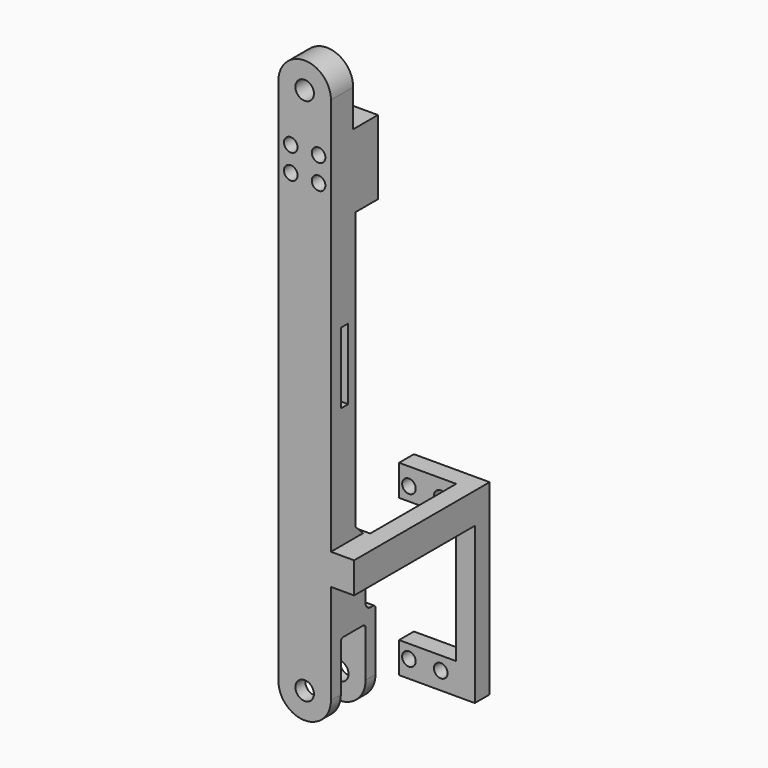
from build123d import *

# Parameters (mm, degrees)
CYLINDER031_R          = 2.2
CYLINDER031_DEPTH      = 26
CYLINDER031_ROLL_ANGLE = -90
ARRAY004_X_COUNT       = 2
ARRAY004_X_PITCH       = 8
ARRAY004_Z_COUNT       = 2
ARRAY004_Z_PITCH       = 9
BOX022_W               = 24
BOX022_H               = 10
BOX022_DEPTH           = 17
SKETCH016_R            = 3
PAD016_DEPTH           = 9
BOX023_W               = 35
BOX023_H               = 15
BOX023_DEPTH           = 20
BOX014_W               = 23
BOX014_H               = 3
BOX014_DEPTH           = 20
SKETCH_R               = 3
PAD_DEPTH              = 4
SKETCH001_R            = 3
PAD001_DEPTH           = 4
BOX010_W               = 20
BOX010_H               = 17
BOX010_DEPTH           = 10
FILLET001_R            = 1
FILLET001_ROLL_ANGLE   = 90
FILLET002_1_R          = 2
FILLET002_2_R          = 1
BOX008_W               = 167
BOX008_H               = 10
BOX008_DEPTH           = 17
CYLINDER028_R          = 2.2
CYLINDER028_DEPTH      = 18
CYLINDER028_ROLL_ANGLE = -90
ARRAY_X_COUNT          = 2
ARRAY_X_PITCH          = 49.2
ARRAY_Z_COUNT          = 2
ARRAY_Z_PITCH          = 10.3
PAD008_DEPTH           = 6
PAD007_DEPTH           = 10
CHAMFER001_SIZE        = 3
CUT014_PITCH_ANGLE     = 90


with BuildPart() as obj1:
    # Cylinder031 → Cylinder031 (new body)
    with BuildSketch(Plane.XY):
        Circle(CYLINDER031_R)
    extrude(amount=CYLINDER031_DEPTH)


with BuildPart() as obj1_1:
    # Cylinder031 roll: moved
    add(obj1.part.rotate(Axis((0, 0, 0), (1, 0, 0)), CYLINDER031_ROLL_ANGLE))


with BuildPart() as obj1_2:
    # Cylinder031 placement: moved
    add(obj1_1.part.moved(Location((202, 0, 4))))

    # Array004 X: obj1_2


with BuildPart() as obj1_3:
    add(obj1_2.part)
    with Locations(*[(i * ARRAY004_X_PITCH, 0, 0) for i in range(1, ARRAY004_X_COUNT)]):
        add(obj1_2.part)

    # Array004 Z: obj1_2


with BuildPart() as obj1_4:
    add(obj1_3.part)
    with Locations(*[(0, 0, i * ARRAY004_Z_PITCH) for i in range(1, ARRAY004_Z_COUNT)]):
        add(obj1_3.part)


with BuildPart() as obj1_5:
    # Array004 placement: moved
    add(obj1_4.part.moved(Location((-171, -5, 0))))


with BuildPart() as obj2:
    # Box022 → Box022 (new body)
    with BuildSketch(Plane(origin=(26, 6, 0), x_dir=(1, 0, 0), z_dir=(0, 0, 1))):
        with Locations((12, 5)):
            Rectangle(BOX022_W, BOX022_H)
    extrude(amount=BOX022_DEPTH)


with BuildPart() as obj3:
    # Sketch016 → Pad016 (new body)
    with BuildSketch(Plane(origin=(50, 6, 0), x_dir=(1, 0, 0), z_dir=(0, -1, 0))):
        with BuildLine():
            Line((0, 17), (-36, 17))
            ThreePointArc((-36, 17), (-44.500015, 8.5), (-36, 0))
            Line((-36, 0), (0, 0))
            Line((0, 0), (0, 17))
        make_face()
        with Locations((-36.000015, 8.5)):
            Circle(SKETCH016_R, mode=Mode.SUBTRACT)
    extrude(amount=PAD016_DEPTH)


with BuildPart() as obj4:
    # Box023 → Box023 (new body)
    with BuildSketch(Plane(origin=(-2, -5, 0), x_dir=(1, 0, 0), z_dir=(0, 0, 1))):
        with Locations((17.5, 7.5)):
            Rectangle(BOX023_W, BOX023_H)
    extrude(amount=BOX023_DEPTH)


with BuildPart() as obj5:
    # Box014 → Box014 (new body)
    with BuildSketch(Plane(origin=(80.5, 1, 0), x_dir=(1, 0, 0), z_dir=(0, 0, 1))):
        with Locations((11.5, 1.5)):
            Rectangle(BOX014_W, BOX014_H)
    extrude(amount=BOX014_DEPTH)


with BuildPart() as obj6:
    # Sketch → Pad (new body)
    with BuildSketch(Plane.XY):
        with BuildLine():
            Line((0, 17), (20, 17))
            ThreePointArc((20, 0), (28.500019, 8.5), (20, 17))
            Line((20, 0), (0, 0))
            Line((0, 0), (0, 17))
        make_face()
        with Locations((20.000019, 8.5)):
            Circle(SKETCH_R, mode=Mode.SUBTRACT)
    extrude(amount=PAD_DEPTH)


with BuildPart() as obj7:
    # Sketch001 → Pad001 (new body)
    with BuildSketch(Plane.XY.offset(14)):
        with BuildLine():
            Line((0, 17), (20, 17))
            ThreePointArc((20, 0), (28.500019, 8.5), (20, 17))
            Line((20, 0), (0, 0))
            Line((0, 0), (0, 17))
        make_face()
        with Locations((20.000019, 8.5)):
            Circle(SKETCH001_R, mode=Mode.SUBTRACT)
    extrude(amount=PAD001_DEPTH)


with BuildPart() as obj8:
    # Box010 → Box010 (new body)
    with BuildSketch(Plane(origin=(-16, 0, 4), x_dir=(1, 0, 0), z_dir=(0, 0, 1))):
        with Locations((10, 8.5)):
            Rectangle(BOX010_W, BOX010_H)
    extrude(amount=BOX010_DEPTH)

    # Fusion006: union obj6, obj7
    add(obj6.part)
    add(obj7.part)

    # Fillet001
    fillet001_edges = [obj8.edges().sort_by_distance(p)[0] for p in [
        (0, 8.5, 18),
        (-16, 0, 9),
        (-16, 17, 9),
        (0, 8.5, 0),
    ]]
    fillet(fillet001_edges, radius=FILLET001_R)


with BuildPart() as obj8_1:
    # Fillet001 roll: moved
    add(obj8.part.rotate(Axis((0, 0, 0), (1, 0, 0)), FILLET001_ROLL_ANGLE))


with BuildPart() as obj8_2:
    # Fillet001 placement: moved
    add(obj8_1.part.moved(Location((16, 15, 0))))

    # Fillet002 1
    fillet002_1_edges = [obj8_2.edges().sort_by_distance(p)[0] for p in [
        (16, 1, 8.5),
        (16, 11, 8.5),
    ]]
    fillet(fillet002_1_edges, radius=FILLET002_1_R)

    # Fillet002 2
    fillet002_2_edges = [obj8_2.edges().sort_by_distance(p)[0] for p in [
        (20, 1, 8.5),
        (20, 11, 8.5),
    ]]
    fillet(fillet002_2_edges, radius=FILLET002_2_R)


with BuildPart() as obj8_3:
    # Fillet002 placement: moved
    add(obj8_2.part.moved(Location((149, 0, 0))))


with BuildPart() as obj9:
    # Box008 → Box008 (new body)
    with BuildSketch(Plane(origin=(0, -3, 0), x_dir=(1, 0, 0), z_dir=(0, 0, 1))):
        with Locations((83.5, 5)):
            Rectangle(BOX008_W, BOX008_H)
    extrude(amount=BOX008_DEPTH)

    # Fusion007: union obj8
    add(obj8_3.part)

    # Cut009: cut obj5
    add(obj5.part, mode=Mode.SUBTRACT)


with BuildPart() as obj10:
    # Cylinder028 → Cylinder028 (new body)
    with BuildSketch(Plane.XY):
        Circle(CYLINDER028_R)
    extrude(amount=CYLINDER028_DEPTH)


with BuildPart() as obj10_1:
    # Cylinder028 roll: moved
    add(obj10.part.rotate(Axis((0, 0, 0), (1, 0, 0)), CYLINDER028_ROLL_ANGLE))


with BuildPart() as obj10_2:
    # Cylinder028 placement: moved
    add(obj10_1.part.moved(Location((150.075, 41, 13.5))))

    # Array X: obj10_2


with BuildPart() as obj10_3:
    add(obj10_2.part)
    with Locations(*[(i * ARRAY_X_PITCH, 0, 0) for i in range(1, ARRAY_X_COUNT)]):
        add(obj10_2.part)

    # Array Z: obj10_2


with BuildPart() as obj10_4:
    add(obj10_3.part)
    with Locations(*[(0, 0, -i * ARRAY_Z_PITCH) for i in range(1, ARRAY_Z_COUNT)]):
        add(obj10_3.part)


with BuildPart() as obj11:
    # Sketch008 → Pad008 (new body)
    with BuildSketch(Plane(origin=(10, 54.8, 0), x_dir=(1, 0, 0), z_dir=(0, -1, 0))):
        Polygon((0, 18.5), (0, 24.5), (50.5, 24.5), (50.5, 0), (40.5, 0), (40.5, 18.5), align=None)
    extrude(amount=PAD008_DEPTH)


with BuildPart() as obj12:
    # Sketch007 → Pad007 (new body)
    with BuildSketch(Plane.YZ):
        Polygon((14, 0), (0, 0), (0, 24.5), (54.8, 24.5), (54.8, 0), (48.8, 0), (48.8, 18.5), (14, 18.5), align=None)
    extrude(amount=PAD007_DEPTH)

    # Fusion009003004: union obj11
    add(obj11.part)


with BuildPart() as obj12_1:
    # Fusion009003004 placement: moved
    add(obj12.part.moved(Location((144.425, -3, 0))))

    # Cut008: cut obj10
    add(obj10_4.part, mode=Mode.SUBTRACT)


with BuildPart() as obj12_2:
    # Cut008 placement: moved
    add(obj12_1.part.moved(Location((-1.725, 0, 0))))

    # Fusion009003007: union obj9
    add(obj9.part)

    # Chamfer001
    chamfer001_edges = [obj12_2.edges().sort_by_distance(p)[0] for p in [
        (142.7, 7, 8.5),
    ]]
    chamfer(chamfer001_edges, length=CHAMFER001_SIZE)

    # Cut013: cut obj4
    add(obj4.part, mode=Mode.SUBTRACT)

    # Fusion009003016: union obj3
    add(obj3.part)

    # Fusion009003017: union obj2
    add(obj2.part)

    # Cut014: cut obj1
    add(obj1_5.part, mode=Mode.SUBTRACT)


with BuildPart() as obj12_3:
    # Cut014 pitch: moved
    add(obj12_2.part.rotate(Axis((0, 0, 0), (0, 1, 0)), CUT014_PITCH_ANGLE))


with BuildPart() as obj12_4:
    # Cut014 placement: moved
    add(obj12_3.part.moved(Location((359, 67, 326))))


solid = obj12_4.part
